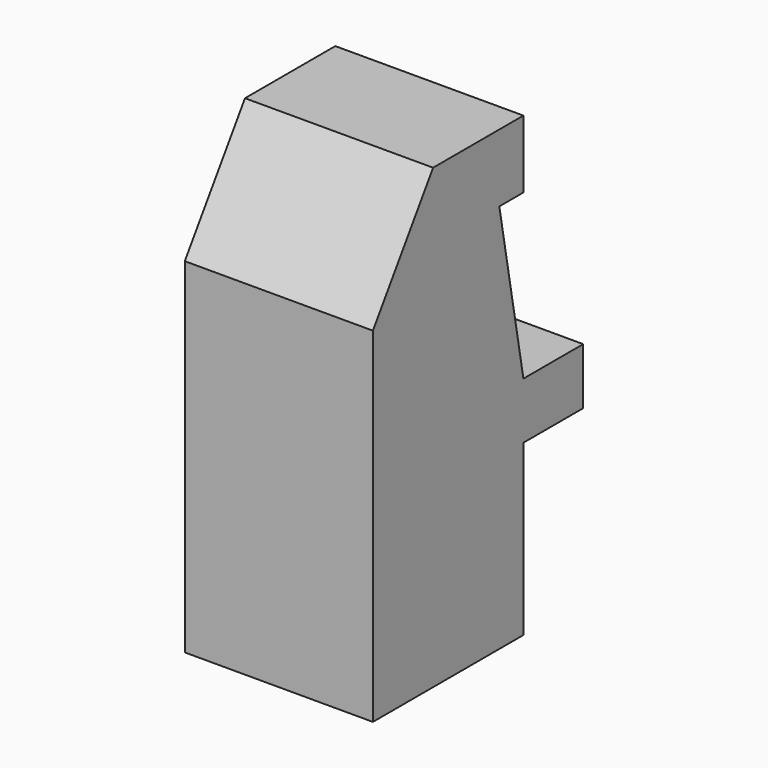
from build123d import *

# Parameters (mm, degrees)
F1_DEPTH = 25


with BuildPart() as f1:
    # F0 (on Right) → F1 (new body, symmetric)
    with BuildSketch(Plane.YZ):
        Polygon((-25, 0), (25, 0), (25, 45), (44.870459, 45), (44.870459, 60), (25, 60), (17, 103.547319), (25, 103.547319), (25, 121.547319), (-5, 121.547319), (-25, 91.547319), align=None)
    extrude(amount=F1_DEPTH, both=True)


solid = f1.part
